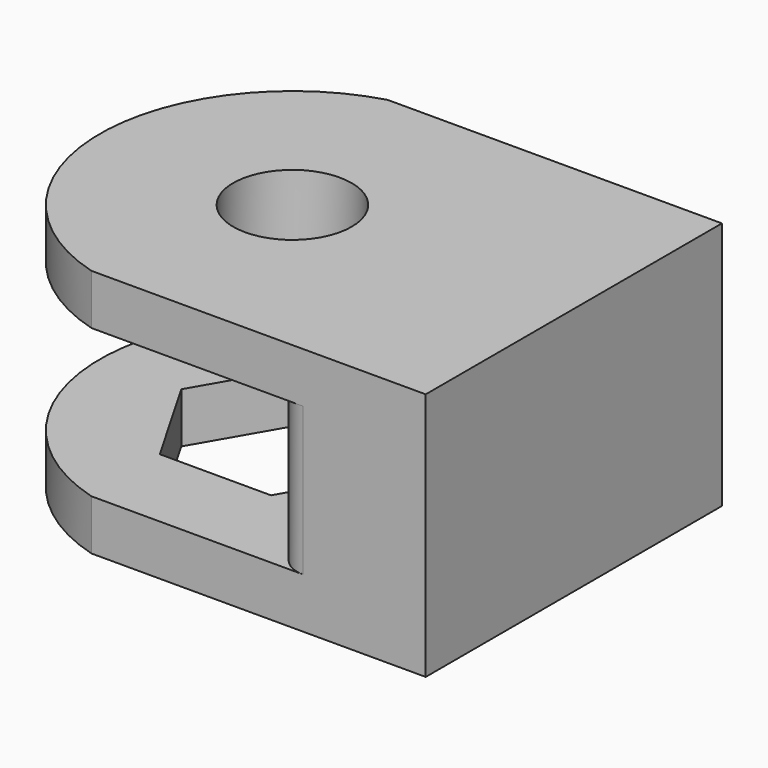
from build123d import *

# Parameters (mm, degrees)
F1_R     = 2
F3_DEPTH = 8.4
F5_R     = 2
F6_DEPTH = 25
F7_DEPTH = 1.7
F8_R     = 1


with BuildPart() as f3:
    # F1 (on Top) → F3 (new body, through all)
    with BuildSketch(Plane.XY):
        with BuildLine():
            Line((9.5, 6.25), (1.7853571071, 6.25))
            ThreePointArc((1.7853571071, 6.25), (5.1891628032, 3.9144079248), (6.5, 0))
            ThreePointArc((6.5, 0), (5.1891628032, -3.9144079248), (1.7853571071, -6.25))
            Line((1.7853571071, -6.25), (9.5, -6.25))
            Line((9.5, -6.25), (9.5, 6.25))
        make_face()
        with BuildLine():
            Line((1.7853571071, 6.25), (-1.7853571071, 6.25))
            ThreePointArc((-1.7853571071, 6.25), (-6.5, 0), (-1.7853571071, -6.25))
            Line((-1.7853571071, -6.25), (1.7853571071, -6.25))
            ThreePointArc((1.7853571071, -6.25), (5.1891628032, -3.9144079248), (6.5, 0))
            ThreePointArc((6.5, 0), (5.1891628032, 3.9144079248), (1.7853571071, 6.25))
        make_face()
        Polygon((-3.7527767497, 0), (-1.8763883749, 3.25), (1.8763883749, 3.25), (3.7527767497, 0), (1.8763883749, -3.25), (-1.8763883749, -3.25), align=None, mode=Mode.SUBTRACT)
        Polygon((1.8763883749, 3.25), (-1.8763883749, 3.25), (-3.7527767497, 0), (-1.8763883749, -3.25), (1.8763883749, -3.25), (3.7527767497, 0), align=None)
        Circle(F1_R, mode=Mode.SUBTRACT)
    extrude(amount=F3_DEPTH)

    # F2 (on Front) → F4 (revolve, cut)
    with BuildSketch(Plane.XZ):
        Polygon((0, 6.2), (0, 1.7), (6.5, 1.7), (6.5, 6.7), (3.2177651569, 6.7), (2.7, 6.2), align=None)
    revolve(axis=Axis((0, 0, 4.2), (0, 0, 1)), mode=Mode.SUBTRACT)

    # F5 (on face) → F6 (cut)
    with BuildSketch(Plane.XY.offset(8.4)):
        Circle(F5_R)
    extrude(amount=-F6_DEPTH, mode=Mode.SUBTRACT)

    # F1 (on Top) → F7 (cut, through all)
    with BuildSketch(Plane.XY):
        Polygon((1.8763883749, 3.25), (-1.8763883749, 3.25), (-3.7527767497, 0), (-1.8763883749, -3.25), (1.8763883749, -3.25), (3.7527767497, 0), align=None)
        Circle(F1_R, mode=Mode.SUBTRACT)
    extrude(amount=F7_DEPTH, mode=Mode.SUBTRACT)

    # F8
    f8_edges = [f3.edges().sort_by_distance(p)[0] for p in [
        (1.785357, 6.25, 4.2),
        (1.785357, -6.25, 4.2),
    ]]
    fillet(f8_edges, radius=F8_R)


solid = f3.part
